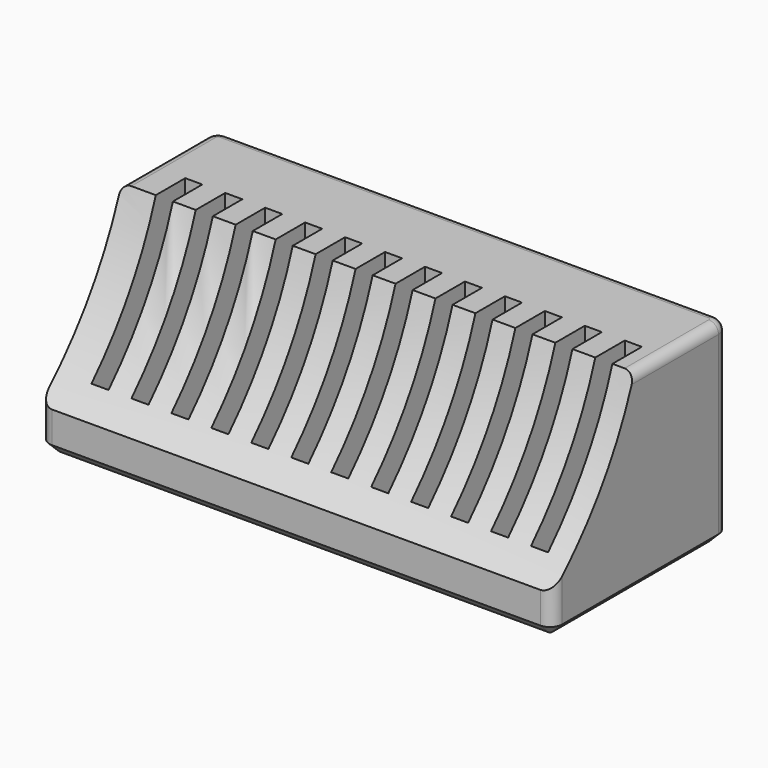
from build123d import *

# Parameters (mm, degrees)
PAD_DEPTH           = 40
POCKET_DEPTH        = 105.001
SKETCH002_W         = 3.5
SKETCH002_H         = 24
POCKET001_DEPTH     = 35
LINEARPATTERN_COUNT = 12
LINEARPATTERN_PITCH = 8.181818
FILLET_R            = 2
CHAMFER_SIZE        = 2


with BuildPart() as part:
    # Sketch → Pad (new body)
    with BuildSketch(Plane.XY):
        with BuildLine():
            Line((-50, 22.5), (50, 22.5))
            ThreePointArc((52.5, 20), (51.767767, 21.767767), (50, 22.5))
            Line((52.5, 20), (52.5, -20))
            ThreePointArc((50, -22.5), (51.767767, -21.767767), (52.5, -20))
            Line((50, -22.5), (-50, -22.5))
            ThreePointArc((-52.5, -20), (-51.767767, -21.767767), (-50, -22.5))
            Line((-52.5, -20), (-52.5, 20))
            ThreePointArc((-50, 22.5), (-51.767767, 21.767767), (-52.5, 20))
        make_face()
    extrude(amount=PAD_DEPTH)

    # Sketch001 (on Face5 of Pad) → Pocket (cut, through all)
    with BuildSketch(Plane.YZ.offset(52.5)):
        with BuildLine():
            ThreePointArc((-34.433893, 0), (-12.512323, 19.11251), (0, 45.366749))
            Line((0, 45.366749), (-64.611679, 45.366749))
            Line((-64.611679, 45.366749), (-64.611679, 0))
            Line((-64.611679, 0), (-34.433893, 0))
        make_face()
    extrude(amount=-POCKET_DEPTH, mode=Mode.SUBTRACT)

    # Sketch002 (on Face4 of Pocket) → Pocket001 (cut)
    with BuildSketch(Plane.XY.offset(40)):
        with Locations((-43.75, -6)):
            Rectangle(SKETCH002_W, SKETCH002_H)
    pocket001 = extrude(amount=-POCKET001_DEPTH, mode=Mode.SUBTRACT)

    # LinearPattern: Pocket001 ×12
    with Locations(*[(i * LINEARPATTERN_PITCH, 0, 0) for i in range(1, LINEARPATTERN_COUNT)]):
        add(pocket001, mode=Mode.SUBTRACT)

    # Fillet
    fillet_edges = [part.edges().sort_by_distance(p)[0] for p in [
        (0, 22.5, 40),
    ]]
    fillet(fillet_edges, radius=FILLET_R)

    # Chamfer
    chamfer_edges = [part.edges().sort_by_distance(p)[0] for p in [
        (-50, 22.5, 19),
        (0, 22.5, 38),
        (0, 22.5, 0),
        (50, 22.5, 19),
        (-52.5, 0, 0),
        (-51.767767, 21.767767, 0),
        (51.767767, 21.767767, 0),
        (52.5, 0, 0),
        (51.767767, -21.767767, 0),
        (0, -22.5, 0),
        (-51.767767, -21.767767, 0),
    ]]
    chamfer(chamfer_edges, length=CHAMFER_SIZE)


solid = part.part
